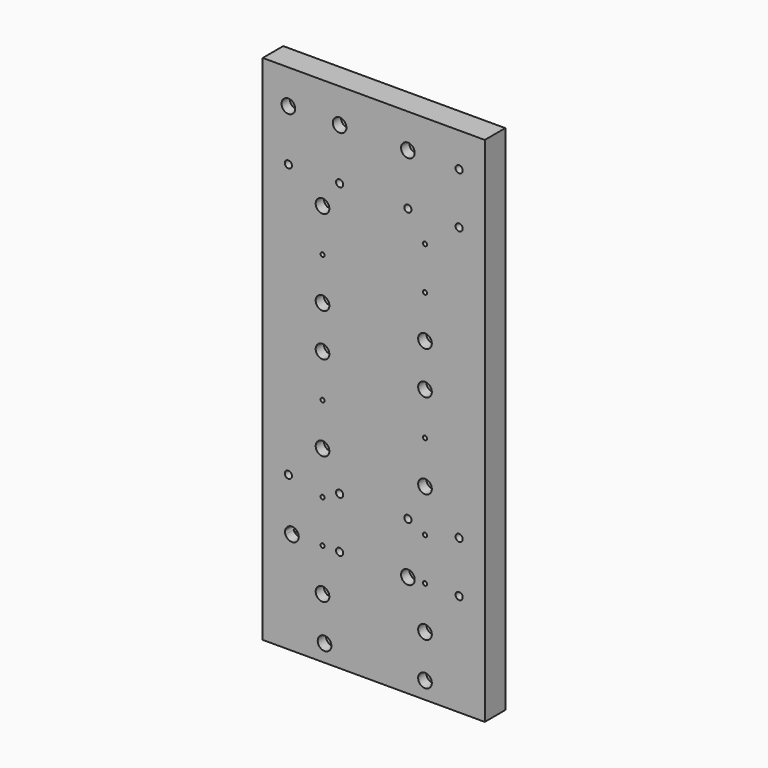
from build123d import *

# Parameters (mm, degrees)
SKETCH_W        = 130
SKETCH_H        = 300
PAD_DEPTH       = 15
SKETCH001_R     = 2.1
SKETCH001_R_2   = 1.2
POCKET_DEPTH    = 15.001
SKETCH002_R     = 4
POCKET001_DEPTH = 6


with BuildPart() as part:
    # Sketch → Pad (new body)
    with BuildSketch(Plane.XZ):
        with Locations((65, 150)):
            Rectangle(SKETCH_W, SKETCH_H)
    extrude(amount=PAD_DEPTH)

    # Sketch001 (on Face6 of Pad) → Pocket (cut, through all)
    with BuildSketch(Plane.XZ.offset(15)):
        with Locations((15, 280)):
            Circle(SKETCH001_R)
        with Locations((45, 280)):
            Circle(SKETCH001_R)
        with Locations((15, 250)):
            Circle(SKETCH001_R)
        with Locations((45, 250)):
            Circle(SKETCH001_R)
        with Locations((85, 280)):
            Circle(SKETCH001_R)
        with Locations((115, 280)):
            Circle(SKETCH001_R)
        with Locations((85, 250)):
            Circle(SKETCH001_R)
        with Locations((115, 250)):
            Circle(SKETCH001_R)
        with Locations((15, 90)):
            Circle(SKETCH001_R)
        with Locations((45, 90)):
            Circle(SKETCH001_R)
        with Locations((15, 60)):
            Circle(SKETCH001_R)
        with Locations((45, 60)):
            Circle(SKETCH001_R)
        with Locations((85, 90)):
            Circle(SKETCH001_R)
        with Locations((115, 90)):
            Circle(SKETCH001_R)
        with Locations((85, 60)):
            Circle(SKETCH001_R)
        with Locations((115, 60)):
            Circle(SKETCH001_R)
        with Locations((35, 235)):
            Circle(SKETCH001_R_2)
        with Locations((95, 235)):
            Circle(SKETCH001_R_2)
        with Locations((35, 210)):
            Circle(SKETCH001_R_2)
        with Locations((95, 210)):
            Circle(SKETCH001_R_2)
        with Locations((35, 185)):
            Circle(SKETCH001_R_2)
        with Locations((95, 185)):
            Circle(SKETCH001_R_2)
        with Locations((35, 160)):
            Circle(SKETCH001_R_2)
        with Locations((95, 160)):
            Circle(SKETCH001_R_2)
        with Locations((35, 135)):
            Circle(SKETCH001_R_2)
        with Locations((95, 135)):
            Circle(SKETCH001_R_2)
        with Locations((35, 110)):
            Circle(SKETCH001_R_2)
        with Locations((95, 110)):
            Circle(SKETCH001_R_2)
        with Locations((35, 85)):
            Circle(SKETCH001_R_2)
        with Locations((95, 85)):
            Circle(SKETCH001_R_2)
        with Locations((35, 60)):
            Circle(SKETCH001_R_2)
        with Locations((95, 60)):
            Circle(SKETCH001_R_2)
        with Locations((35, 35)):
            Circle(SKETCH001_R_2)
        with Locations((95, 35)):
            Circle(SKETCH001_R_2)
        with Locations((35, 10)):
            Circle(SKETCH001_R_2)
        with Locations((95, 10)):
            Circle(SKETCH001_R_2)
    extrude(amount=-POCKET_DEPTH, mode=Mode.SUBTRACT)

    # Sketch002 (on Face5 of Pocket) → Pocket001 (cut)
    with BuildSketch(Plane.XZ.offset(15)):
        with Locations((15, 280.000031)):
            Circle(SKETCH002_R)
        with Locations((45, 280.000031)):
            Circle(SKETCH002_R)
        with Locations((95, 185)):
            Circle(SKETCH002_R)
        with Locations((36.2, 10)):
            Circle(SKETCH002_R)
        with Locations((35, 235)):
            Circle(SKETCH002_R)
        with Locations((85, 60)):
            Circle(SKETCH002_R)
        with Locations((17.1, 60)):
            Circle(SKETCH002_R)
        with Locations((95, 160)):
            Circle(SKETCH002_R)
        with Locations((35, 110)):
            Circle(SKETCH002_R)
        with Locations((35, 185)):
            Circle(SKETCH002_R)
        with Locations((95, 35)):
            Circle(SKETCH002_R)
        with Locations((85, 280)):
            Circle(SKETCH002_R)
        with Locations((95, 10)):
            Circle(SKETCH002_R)
        with Locations((35, 160)):
            Circle(SKETCH002_R)
        with Locations((35, 35)):
            Circle(SKETCH002_R)
        with Locations((95, 110)):
            Circle(SKETCH002_R)
    extrude(amount=-POCKET001_DEPTH, mode=Mode.SUBTRACT)


solid = part.part
